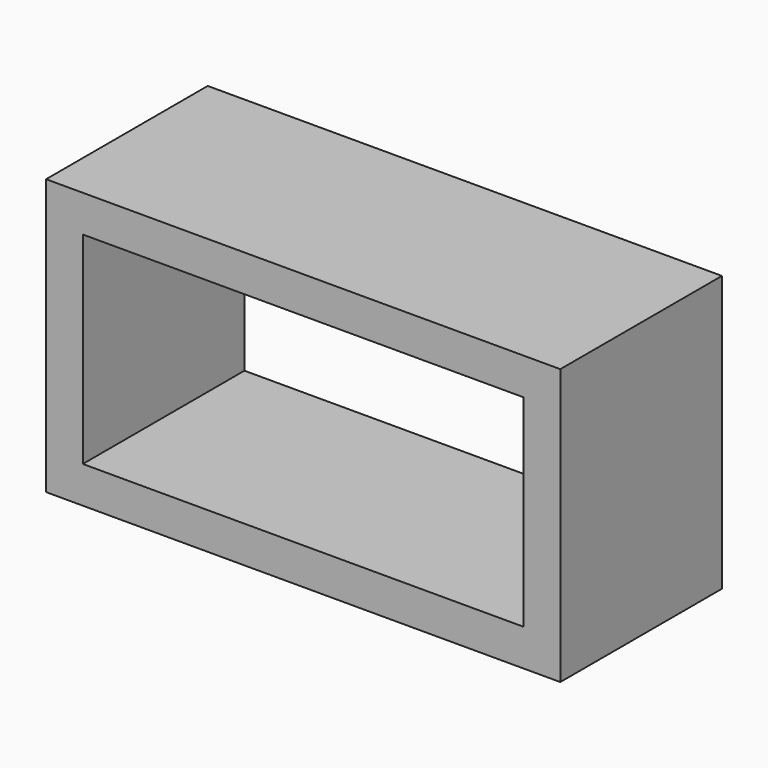
from build123d import *

# Parameters (mm, degrees)
F1_DEPTH = 69.85


with BuildPart() as f1:
    # F0 (on Front) → F1 (new body, symmetric)
    with BuildSketch(Plane.XZ):
        Polygon((-335.894268, 154.945017), (-310.494268, 129.545017), (-5.694268, 129.545017), (19.705732, 154.945017), align=None)
        Polygon((-335.894268, -35.554983), (-310.494268, -10.154983), (-310.494268, 129.545017), (-335.894268, 154.945017), (-335.894268, 129.475847), align=None)
        Polygon((-5.694268, -10.154983), (-310.494268, -10.154983), (-335.894268, -35.554983), (19.705732, -35.554983), align=None)
        Polygon((-5.694268, 129.545017), (-5.694268, -10.154983), (19.705732, -35.554983), (19.705732, 129.475847), (19.705732, 154.945017), align=None)
    extrude(amount=F1_DEPTH, both=True)


solid = f1.part
